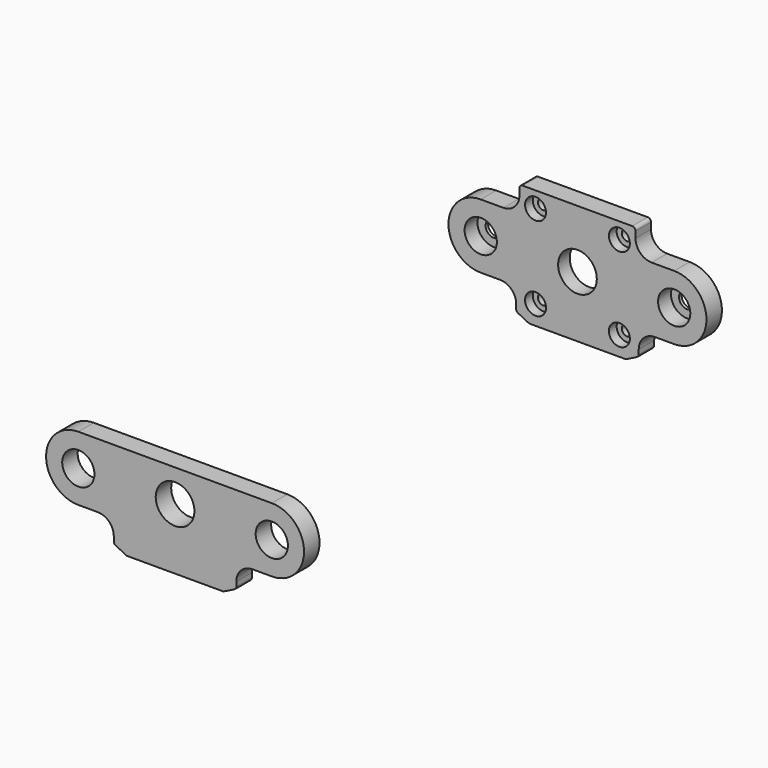
from build123d import *

# Parameters (mm, degrees)
F0_R           = 5
F1_DEPTH       = 6
F4_D           = 3.3
F4_DEPTH       = 10.1
F4_CBORE_D     = 6.5
F4_CBORE_DEPTH = 3
F4_TIP         = 0.9914200214
F5_D           = 5
F5_DEPTH       = 10.1
F5_CBORE_D     = 10
F5_CBORE_DEPTH = 5
F5_TIP         = 1.5021515476
F3_R           = 5
F6_DEPTH       = 6
F7_D           = 12
F7_DEPTH       = 10.1
F7_TIP         = 3.6051637142
F9_D           = 12
F9_DEPTH       = 10.1
F9_CBORE_D     = 22
F9_CBORE_DEPTH = 1.5
F9_TIP         = 3.6051637142


with BuildPart() as f1:
    # F0 (on Front) → F1 (new body)
    with BuildSketch(Plane.XZ):
        with BuildLine():
            Line((-11.7098134421, 9.7313608133), (-18.7098134421, 9.7313608133))
            ThreePointArc((-18.7098134421, 9.7313608133), (-28.7098134421, -0.2686391867), (-18.7098134421, -10.2686391867))
            Line((-18.7098134421, -10.2686391867), (-12.7098134421, -10.2686391867))
            ThreePointArc((-12.7098134421, -10.2686391867), (-9.1742795361, -11.7331052807), (-7.7098134421, -15.2686391867))
            Line((-7.7098134421, -15.2686391867), (-7.7098134421, -16.6506051979))
            ThreePointArc((-7.7098134421, -16.6506051979), (-7.5604642504, -17.17633631), (-7.1570270376, -17.5450323889))
            Line((-7.1570270376, -17.5450323889), (-3.7098134421, -19.2686391867))
            Line((-3.7098134421, -19.2686391867), (26.2901865579, -19.2686391867))
            Line((26.2901865579, -19.2686391867), (29.7374001534, -17.5450323889))
            ThreePointArc((29.7374001534, -17.5450323889), (30.1408373663, -17.17633631), (30.2901865579, -16.6506051979))
            Line((30.2901865579, -16.6506051979), (30.2901865579, -15.2686391867))
            ThreePointArc((30.2901865579, -15.2686391867), (31.754652652, -11.7331052807), (35.2901865579, -10.2686391867))
            Line((35.2901865579, -10.2686391867), (41.2901865579, -10.2686391867))
            ThreePointArc((41.2901865579, -10.2686391867), (51.2901865579, -0.2686391867), (41.2901865579, 9.7313608133))
            Line((41.2901865579, 9.7313608133), (34.2901865579, 9.7313608133))
            ThreePointArc((34.2901865579, 9.7313608133), (30.754652652, 11.1958269074), (29.2901865579, 14.7313608133))
            Line((29.2901865579, 14.7313608133), (29.2901865579, 16.7313608133))
            ThreePointArc((29.2901865579, 16.7313608133), (28.9972933391, 17.4384675945), (28.2901865579, 17.7313608133))
            Line((28.2901865579, 17.7313608133), (-5.7098134421, 17.7313608133))
            ThreePointArc((-5.7098134421, 17.7313608133), (-6.4169202233, 17.4384675945), (-6.7098134421, 16.7313608133))
            Line((-6.7098134421, 16.7313608133), (-6.7098134421, 14.7313608133))
            ThreePointArc((-6.7098134421, 14.7313608133), (-8.1742795361, 11.1958269074), (-11.7098134421, 9.7313608133))
        make_face()
        with Locations((-18.7098134421, -0.2686391867)):
            Circle(F0_R, mode=Mode.SUBTRACT)
        with Locations((41.2901865579, -0.2686391867)):
            Circle(F0_R, mode=Mode.SUBTRACT)
        with Locations((-18.7098134421, -0.2686391867)):
            Circle(F0_R)
        with Locations((41.2901865579, -0.2686391867)):
            Circle(F0_R)
    extrude(amount=-F1_DEPTH)

    # F4
    with Locations(Plane.XZ):
        with Locations((-1.7098134421, 12.7313608133), (24.2901865579, 12.7313608133), (-1.7098134421, -13.2686391867), (24.2901865579, -13.2686391867)):
            CounterBoreHole(F4_D / 2, F4_CBORE_D / 2, F4_CBORE_DEPTH, depth=F4_DEPTH)
            with Locations((0, 0, -(F4_DEPTH + F4_TIP / 2))):  # 118° drill point
                Cone(0, F4_D / 2, F4_TIP, mode=Mode.SUBTRACT)

    # F5
    with Locations(Plane.XZ):
        with Locations((-18.7098134421, -0.2686391867), (41.2901865579, -0.2686391867)):
            CounterBoreHole(F5_D / 2, F5_CBORE_D / 2, F5_CBORE_DEPTH, depth=F5_DEPTH)
            with Locations((0, 0, -(F5_DEPTH + F5_TIP / 2))):  # 118° drill point
                Cone(0, F5_D / 2, F5_TIP, mode=Mode.SUBTRACT)

    # F9
    with Locations(Plane(origin=(0, 6, 0), x_dir=(-1, 0, 0), z_dir=(0, 1, 0))):
        with Locations((-11.2901865579, -0.2686391867)):
            CounterBoreHole(F9_D / 2, F9_CBORE_D / 2, F9_CBORE_DEPTH, depth=F9_DEPTH)
            with Locations((0, 0, -(F9_DEPTH + F9_TIP / 2))):  # 118° drill point
                Cone(0, F9_D / 2, F9_TIP, mode=Mode.SUBTRACT)


with BuildPart() as f6:
    # F3 (on offset) → F6 (new body)
    with BuildSketch(Plane.XZ.offset(150)):
        with BuildLine():
            Line((-7.1570270376, -17.5450323889), (-3.7098134421, -19.2686391867))
            Line((-3.7098134421, -19.2686391867), (26.2901865579, -19.2686391867))
            Line((26.2901865579, -19.2686391867), (29.7374001534, -17.5450323889))
            ThreePointArc((29.7374001534, -17.5450323889), (30.1408373663, -17.17633631), (30.2901865579, -16.6506051979))
            Line((30.2901865579, -16.6506051979), (30.2901865579, -15.2686391867))
            ThreePointArc((30.2901865579, -15.2686391867), (31.754652652, -11.7331052807), (35.2901865579, -10.2686391867))
            Line((35.2901865579, -10.2686391867), (41.2901865579, -10.2686391867))
            ThreePointArc((41.2901865579, -10.2686391867), (51.2901865579, -0.2686391867), (41.2901865579, 9.7313608133))
            Line((41.2901865579, 9.7313608133), (34.2901865579, 9.7313608133))
            Line((34.2901865579, 9.7313608133), (-11.7098134421, 9.7313608133))
            Line((-11.7098134421, 9.7313608133), (-18.7098134421, 9.7313608133))
            ThreePointArc((-18.7098134421, 9.7313608133), (-28.7098134421, -0.2686391867), (-18.7098134421, -10.2686391867))
            Line((-18.7098134421, -10.2686391867), (-12.7098134421, -10.2686391867))
            ThreePointArc((-12.7098134421, -10.2686391867), (-9.1742795361, -11.7331052807), (-7.7098134421, -15.2686391867))
            Line((-7.7098134421, -15.2686391867), (-7.7098134421, -16.6506051979))
            ThreePointArc((-7.7098134421, -16.6506051979), (-7.5604642504, -17.17633631), (-7.1570270376, -17.5450323889))
        make_face()
        with Locations((-18.7098134421, -0.2686391867)):
            Circle(F3_R, mode=Mode.SUBTRACT)
        with Locations((41.2901865579, -0.2686391867)):
            Circle(F3_R, mode=Mode.SUBTRACT)
    extrude(amount=F6_DEPTH)

    # F7
    with Locations(Plane(origin=(0, -150, 0), x_dir=(1, 0, 0), z_dir=(0, 1, 0))):
        with Locations((11.2901865579, 0.2686391867)):
            Hole(F7_D / 2, depth=F7_DEPTH)
            with Locations((0, 0, -(F7_DEPTH + F7_TIP / 2))):  # 118° drill point
                Cone(0, F7_D / 2, F7_TIP, mode=Mode.SUBTRACT)


solid = Compound([f1.part, f6.part])
